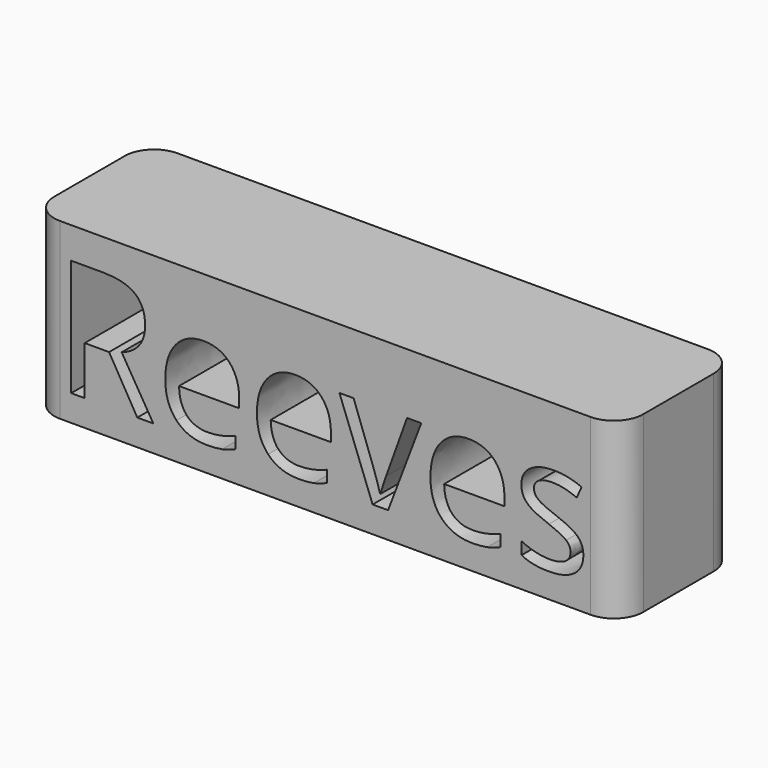
from build123d import *

# Parameters (mm, degrees)
F0_W     = 101.9544452429
F0_H     = 30.142548494
F1_DEPTH = 25.4
F2_R     = 5.08


with BuildPart() as f1:
    # F0 (on Front) → F1 (new body)
    with BuildSketch(Plane.XZ):
        with Locations((13.3624821901, 10.5349854566)):
            Rectangle(F0_W, F0_H)
        with BuildLine():
            Line((-24.0632793571, 8.3938994471), (-28.2779004479, 8.3938994471))
            Line((-28.2779004479, 8.3938994471), (-28.2779004479, 0))
            Line((-28.2779004479, 0), (-30.6237744513, 0))
            Line((-30.6237744513, 0), (-30.6237744513, 20.1851192493))
            Line((-30.6237744513, 20.1851192493), (-25.088218658, 20.1851192493))
            add(Edge.make_bspline(
                [(-25.088218658, 20.1851192493), (-21.3728136922, 20.1851192493), (-19.5990502038, 18.7625741851)],
                knots=[0, 0, 0, 1, 1, 1], degree=2))
            add(Edge.make_bspline(
                [(-19.5990502038, 18.7625741851), (-17.8252867154, 17.3400291209), (-17.8252867154, 14.4816854671)],
                knots=[0, 0, 0, 1, 1, 1], degree=2))
            add(Edge.make_bspline(
                [(-17.8252867154, 14.4816854671), (-17.8252867154, 10.4791207834), (-21.8852833427, 9.0698292447)],
                knots=[0, 0, 0, 1, 1, 1], degree=2))
            Line((-21.8852833427, 9.0698292447), (-16.4027416512, 0))
            Line((-16.4027416512, 0), (-19.1771463105, 0))
            Line((-19.1771463105, 0), (-24.0632793571, 8.3938994471))
        make_face(mode=Mode.SUBTRACT)
        with BuildLine():
            add(Edge.make_bspline(
                [(-4.4834044363, -0.04859626), (-5.5657756808, -0.2783240343), (-7.0987667904, -0.2783240343)],
                knots=[0, 0, 0, 1, 1, 1], degree=2))
            add(Edge.make_bspline(
                [(-7.0987667904, -0.2783240343), (-10.4519087274, -0.2783240343), (-12.3935502048, 1.7671367257)],
                knots=[0, 0, 0, 1, 1, 1], degree=2))
            add(Edge.make_bspline(
                [(-12.3935502048, 1.7671367257), (-14.3351916821, 3.8125974857), (-14.3351916821, 7.4396456152)],
                knots=[0, 0, 0, 1, 1, 1], degree=2))
            add(Edge.make_bspline(
                [(-14.3351916821, 7.4396456152), (-14.3351916821, 11.1020364792), (-12.5327122219, 13.2557343637)],
                knots=[0, 0, 0, 1, 1, 1], degree=2))
            add(Edge.make_bspline(
                [(-12.5327122219, 13.2557343637), (-10.7302327617, 15.4094322481), (-7.6907575935, 15.4094322481)],
                knots=[0, 0, 0, 1, 1, 1], degree=2))
            add(Edge.make_bspline(
                [(-7.6907575935, 15.4094322481), (-4.8500853069, 15.4094322481), (-3.1933946266, 13.5384762398)],
                knots=[0, 0, 0, 1, 1, 1], degree=2))
            add(Edge.make_bspline(
                [(-3.1933946266, 13.5384762398), (-1.5367039462, 11.6675202314), (-1.5367039462, 8.6015380123)],
                knots=[0, 0, 0, 1, 1, 1], degree=2))
            Line((-1.5367039462, 8.6015380123), (-1.5367039462, 7.1524858973))
            Line((-1.5367039462, 7.1524858973), (-11.9583927861, 7.1524858973))
            add(Edge.make_bspline(
                [(-11.9583927861, 7.1524858973), (-11.887707317, 4.4885272833), (-10.6109510327, 3.1079517163)],
                knots=[0, 0, 0, 1, 1, 1], degree=2))
            add(Edge.make_bspline(
                [(-10.6109510327, 3.1079517163), (-9.3341947484, 1.7273761494), (-7.0148277959, 1.7273761494)],
                knots=[0, 0, 0, 1, 1, 1], degree=2))
            add(Edge.make_bspline(
                [(-7.0148277959, 1.7273761494), (-4.5717612726, 1.7273761494), (-2.1861266929, 2.7478976085)],
                knots=[0, 0, 0, 1, 1, 1], degree=2))
            Line((-2.1861266929, 2.7478976085), (-2.1861266929, 0.7024368485))
            add(Edge.make_bspline(
                [(-2.1861266929, 0.7024368485), (-3.4010331919, 0.1811315144), (-4.4834044363, -0.04859626)],
                knots=[0, 0, 0, 1, 1, 1], degree=2))
        make_face(mode=Mode.SUBTRACT)
        with BuildLine():
            add(Edge.make_bspline(
                [(11.3810655186, -0.04859626), (10.2986942741, -0.2783240343), (8.7657031646, -0.2783240343)],
                knots=[0, 0, 0, 1, 1, 1], degree=2))
            add(Edge.make_bspline(
                [(8.7657031646, -0.2783240343), (5.4125612276, -0.2783240343), (3.4709197502, 1.7671367257)],
                knots=[0, 0, 0, 1, 1, 1], degree=2))
            add(Edge.make_bspline(
                [(3.4709197502, 1.7671367257), (1.5292782729, 3.8125974857), (1.5292782729, 7.4396456152)],
                knots=[0, 0, 0, 1, 1, 1], degree=2))
            add(Edge.make_bspline(
                [(1.5292782729, 7.4396456152), (1.5292782729, 11.1020364792), (3.3317577331, 13.2557343637)],
                knots=[0, 0, 0, 1, 1, 1], degree=2))
            add(Edge.make_bspline(
                [(3.3317577331, 13.2557343637), (5.1342371933, 15.4094322481), (8.1737123615, 15.4094322481)],
                knots=[0, 0, 0, 1, 1, 1], degree=2))
            add(Edge.make_bspline(
                [(8.1737123615, 15.4094322481), (11.0143846481, 15.4094322481), (12.6710753284, 13.5384762398)],
                knots=[0, 0, 0, 1, 1, 1], degree=2))
            add(Edge.make_bspline(
                [(12.6710753284, 13.5384762398), (14.3277660087, 11.6675202314), (14.3277660087, 8.6015380123)],
                knots=[0, 0, 0, 1, 1, 1], degree=2))
            Line((14.3277660087, 8.6015380123), (14.3277660087, 7.1524858973))
            Line((14.3277660087, 7.1524858973), (3.9060771689, 7.1524858973))
            add(Edge.make_bspline(
                [(3.9060771689, 7.1524858973), (3.9767626379, 4.4885272833), (5.2535189223, 3.1079517163)],
                knots=[0, 0, 0, 1, 1, 1], degree=2))
            add(Edge.make_bspline(
                [(5.2535189223, 3.1079517163), (6.5302752066, 1.7273761494), (8.8496421591, 1.7273761494)],
                knots=[0, 0, 0, 1, 1, 1], degree=2))
            add(Edge.make_bspline(
                [(8.8496421591, 1.7273761494), (11.2927086824, 1.7273761494), (13.678343262, 2.7478976085)],
                knots=[0, 0, 0, 1, 1, 1], degree=2))
            Line((13.678343262, 2.7478976085), (13.678343262, 0.7024368485))
            add(Edge.make_bspline(
                [(13.678343262, 0.7024368485), (12.4634367631, 0.1811315144), (11.3810655186, -0.04859626)],
                knots=[0, 0, 0, 1, 1, 1], degree=2))
        make_face(mode=Mode.SUBTRACT)
        with BuildLine():
            Line((24.2281495145, 0), (21.550937375, 0))
            Line((21.550937375, 0), (15.8077430165, 15.1311082138))
            Line((15.8077430165, 15.1311082138), (18.2640630652, 15.1311082138))
            Line((18.2640630652, 15.1311082138), (21.5244303242, 6.1584714891))
            add(Edge.make_bspline(
                [(21.5244303242, 6.1584714891), (22.6288907777, 3.0085502755), (22.8232758176, 2.0719678109)],
                knots=[0, 0, 0, 1, 1, 1], degree=2))
            Line((22.8232758176, 2.0719678109), (22.9337218629, 2.0719678109))
            add(Edge.make_bspline(
                [(22.9337218629, 2.0719678109), (23.0839284846, 2.8009117102), (23.8923935366, 5.1003983746)],
                knots=[0, 0, 0, 1, 1, 1], degree=2))
            add(Edge.make_bspline(
                [(23.8923935366, 5.1003983746), (24.7008585886, 7.3998850389), (27.5150238243, 15.1311082138)],
                knots=[0, 0, 0, 1, 1, 1], degree=2))
            Line((27.5150238243, 15.1311082138), (29.971343873, 15.1311082138))
            Line((29.971343873, 15.1311082138), (24.2281495145, 0))
        make_face(mode=Mode.SUBTRACT)
        with BuildLine():
            add(Edge.make_bspline(
                [(41.4091363301, -0.04859626), (40.3267650856, -0.2783240343), (38.7937739761, -0.2783240343)],
                knots=[0, 0, 0, 1, 1, 1], degree=2))
            add(Edge.make_bspline(
                [(38.7937739761, -0.2783240343), (35.4406320391, -0.2783240343), (33.4989905617, 1.7671367257)],
                knots=[0, 0, 0, 1, 1, 1], degree=2))
            add(Edge.make_bspline(
                [(33.4989905617, 1.7671367257), (31.5573490843, 3.8125974857), (31.5573490843, 7.4396456152)],
                knots=[0, 0, 0, 1, 1, 1], degree=2))
            add(Edge.make_bspline(
                [(31.5573490843, 7.4396456152), (31.5573490843, 11.1020364792), (33.3598285445, 13.2557343637)],
                knots=[0, 0, 0, 1, 1, 1], degree=2))
            add(Edge.make_bspline(
                [(33.3598285445, 13.2557343637), (35.1623080048, 15.4094322481), (38.201783173, 15.4094322481)],
                knots=[0, 0, 0, 1, 1, 1], degree=2))
            add(Edge.make_bspline(
                [(38.201783173, 15.4094322481), (41.0424554595, 15.4094322481), (42.6991461399, 13.5384762398)],
                knots=[0, 0, 0, 1, 1, 1], degree=2))
            add(Edge.make_bspline(
                [(42.6991461399, 13.5384762398), (44.3558368202, 11.6675202314), (44.3558368202, 8.6015380123)],
                knots=[0, 0, 0, 1, 1, 1], degree=2))
            Line((44.3558368202, 8.6015380123), (44.3558368202, 7.1524858973))
            Line((44.3558368202, 7.1524858973), (33.9341479804, 7.1524858973))
            add(Edge.make_bspline(
                [(33.9341479804, 7.1524858973), (34.0048334494, 4.4885272833), (35.2815897337, 3.1079517163)],
                knots=[0, 0, 0, 1, 1, 1], degree=2))
            add(Edge.make_bspline(
                [(35.2815897337, 3.1079517163), (36.5583460181, 1.7273761494), (38.8777129705, 1.7273761494)],
                knots=[0, 0, 0, 1, 1, 1], degree=2))
            add(Edge.make_bspline(
                [(38.8777129705, 1.7273761494), (41.3207794938, 1.7273761494), (43.7064140735, 2.7478976085)],
                knots=[0, 0, 0, 1, 1, 1], degree=2))
            Line((43.7064140735, 2.7478976085), (43.7064140735, 0.7024368485))
            add(Edge.make_bspline(
                [(43.7064140735, 0.7024368485), (42.4915075746, 0.1811315144), (41.4091363301, -0.04859626)],
                knots=[0, 0, 0, 1, 1, 1], degree=2))
        make_face(mode=Mode.SUBTRACT)
        with BuildLine():
            add(Edge.make_bspline(
                [(57.0792212453, 6.6267627214), (58.0246393935, 5.6327483132), (58.0246393935, 4.1262642545)],
                knots=[0, 0, 0, 1, 1, 1], degree=2))
            add(Edge.make_bspline(
                [(58.0246393935, 4.1262642545), (58.0246393935, 2.0145358673), (56.4518877076, 0.8681059165)],
                knots=[0, 0, 0, 1, 1, 1], degree=2))
            add(Edge.make_bspline(
                [(56.4518877076, 0.8681059165), (54.8791360218, -0.2783240343), (52.0340458934, -0.2783240343)],
                knots=[0, 0, 0, 1, 1, 1], degree=2))
            add(Edge.make_bspline(
                [(52.0340458934, -0.2783240343), (49.0254956179, -0.2783240343), (47.3422978867, 0.6759297976)],
                knots=[0, 0, 0, 1, 1, 1], degree=2))
            Line((47.3422978867, 0.6759297976), (47.3422978867, 2.8009117102))
            add(Edge.make_bspline(
                [(47.3422978867, 2.8009117102), (48.4335048148, 2.2486814835), (49.6815451273, 1.9328057937)],
                knots=[0, 0, 0, 1, 1, 1], degree=2))
            add(Edge.make_bspline(
                [(49.6815451273, 1.9328057937), (50.9295854398, 1.616930104), (52.091477837, 1.616930104)],
                knots=[0, 0, 0, 1, 1, 1], degree=2))
            add(Edge.make_bspline(
                [(52.091477837, 1.616930104), (53.8851216136, 1.616930104), (54.85042005, 2.189040619)],
                knots=[0, 0, 0, 1, 1, 1], degree=2))
            add(Edge.make_bspline(
                [(54.85042005, 2.189040619), (55.8157184864, 2.7611511339), (55.8157184864, 3.9362970565)],
                knots=[0, 0, 0, 1, 1, 1], degree=2))
            add(Edge.make_bspline(
                [(55.8157184864, 3.9362970565), (55.8157184864, 4.8198654193), (55.0514318525, 5.447198957)],
                knots=[0, 0, 0, 1, 1, 1], degree=2))
            add(Edge.make_bspline(
                [(55.0514318525, 5.447198957), (54.2871452187, 6.0745324946), (52.0605529443, 6.9315938066)],
                knots=[0, 0, 0, 1, 1, 1], degree=2))
            add(Edge.make_bspline(
                [(52.0605529443, 6.9315938066), (49.9488245571, 7.7179696495), (49.0586294315, 8.3055426108)],
                knots=[0, 0, 0, 1, 1, 1], degree=2))
            add(Edge.make_bspline(
                [(49.0586294315, 8.3055426108), (48.1684343059, 8.8931155721), (47.7332768872, 9.6375219178)],
                knots=[0, 0, 0, 1, 1, 1], degree=2))
            add(Edge.make_bspline(
                [(47.7332768872, 9.6375219178), (47.2981194685, 10.3819282635), (47.2981194685, 11.415703248)],
                knots=[0, 0, 0, 1, 1, 1], degree=2))
            add(Edge.make_bspline(
                [(47.2981194685, 11.415703248), (47.2981194685, 13.2667789682), (48.8046035272, 14.3381056082)],
                knots=[0, 0, 0, 1, 1, 1], degree=2))
            add(Edge.make_bspline(
                [(48.8046035272, 14.3381056082), (50.3110875858, 15.4094322481), (52.9308677817, 15.4094322481)],
                knots=[0, 0, 0, 1, 1, 1], degree=2))
            add(Edge.make_bspline(
                [(52.9308677817, 15.4094322481), (55.373934305, 15.4094322481), (57.7109726247, 14.4154178399)],
                knots=[0, 0, 0, 1, 1, 1], degree=2))
            Line((57.7109726247, 14.4154178399), (56.8936718891, 12.5510885943))
            add(Edge.make_bspline(
                [(56.8936718891, 12.5510885943), (54.6184833547, 13.4876710589), (52.7674076346, 13.4876710589)],
                knots=[0, 0, 0, 1, 1, 1], degree=2))
            add(Edge.make_bspline(
                [(52.7674076346, 13.4876710589), (51.1372240051, 13.4876710589), (50.3088786649, 12.9774103294)],
                knots=[0, 0, 0, 1, 1, 1], degree=2))
            add(Edge.make_bspline(
                [(50.3088786649, 12.9774103294), (49.4805333248, 12.4671495998), (49.4805333248, 11.5703277115)],
                knots=[0, 0, 0, 1, 1, 1], degree=2))
            add(Edge.make_bspline(
                [(49.4805333248, 11.5703277115), (49.4805333248, 10.9606655412), (49.7919911727, 10.5343438061)],
                knots=[0, 0, 0, 1, 1, 1], degree=2))
            add(Edge.make_bspline(
                [(49.7919911727, 10.5343438061), (50.1034490206, 10.108022071), (50.7926323436, 9.7214609123)],
                knots=[0, 0, 0, 1, 1, 1], degree=2))
            add(Edge.make_bspline(
                [(50.7926323436, 9.7214609123), (51.4818156666, 9.3348997535), (53.4433374321, 8.6015380123)],
                knots=[0, 0, 0, 1, 1, 1], degree=2))
            add(Edge.make_bspline(
                [(53.4433374321, 8.6015380123), (56.133803097, 7.6207771296), (57.0792212453, 6.6267627214)],
                knots=[0, 0, 0, 1, 1, 1], degree=2))
        make_face(mode=Mode.SUBTRACT)
    extrude(amount=F1_DEPTH)

    # F2
    f2_edges = [f1.edges().sort_by_distance(p)[0] for p in [
        (64.339705, -25.4, 10.534985),
        (-37.61474, -25.4, 10.534985),
        (64.339705, 0, 10.534985),
        (-37.61474, 0, 10.534985),
    ]]
    fillet(f2_edges, radius=F2_R)


solid = f1.part
